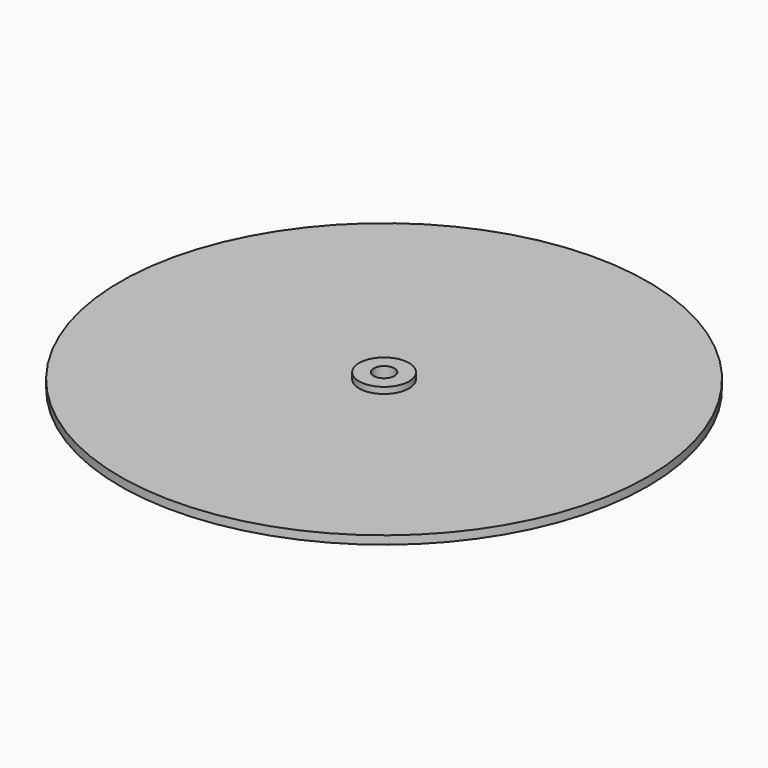
from build123d import *

# Parameters (mm, degrees)
F0_R     = 6
F0_R_2   = 2.5
F1_DEPTH = 2.5
F2_R     = 63.5
F2_R_2   = 5
F3_DEPTH = 1


with BuildPart() as f1:
    # F0 (on Top) → F1 (new body, symmetric)
    with BuildSketch(Plane.XY):
        Circle(F0_R)
        Circle(F0_R_2, mode=Mode.SUBTRACT)
    extrude(amount=F1_DEPTH, both=True)

    # F2 (on Top) → F3 (join, symmetric)
    with BuildSketch(Plane.XY):
        Circle(F2_R)
        Circle(F2_R_2, mode=Mode.SUBTRACT)
    extrude(amount=F3_DEPTH, both=True)


solid = f1.part
